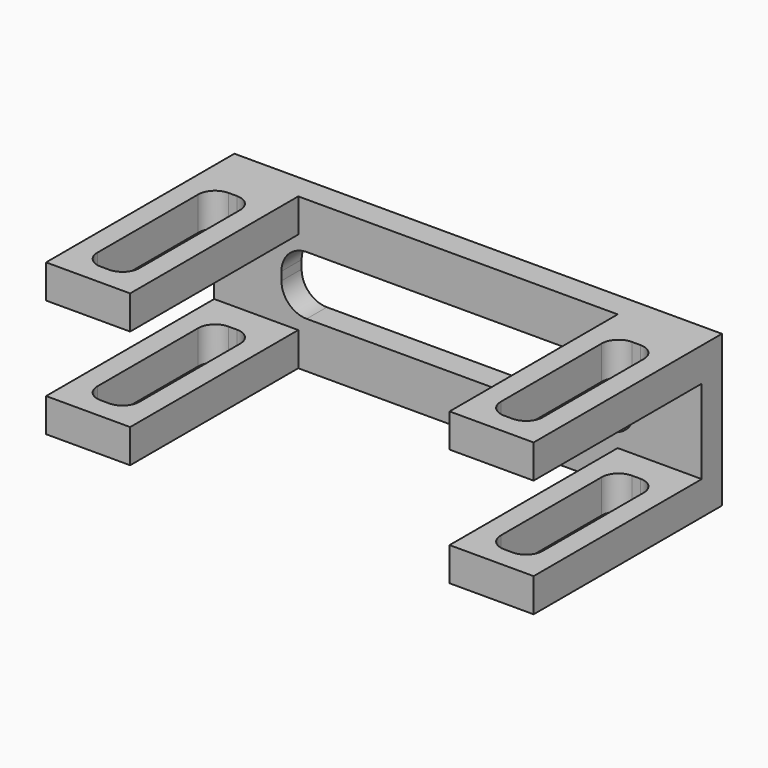
from build123d import *

# Parameters (mm, degrees)
F0_W     = 58
F0_H     = 18
F1_DEPTH = 3
F2_W     = 10
F2_H     = 4
F3_DEPTH = 25
F5_DEPTH = 3.001
F7_DEPTH = 18.001


with BuildPart() as f1:
    # F0 (on Front) → F1 (new body)
    with BuildSketch(Plane.XZ):
        with Locations((29, 9)):
            Rectangle(F0_W, F0_H)
    extrude(amount=F1_DEPTH)

    # F2 (on face) → F3 (join)
    with BuildSketch(Plane.XZ.offset(3)):
        with Locations((53, 16)):
            Rectangle(F2_W, F2_H)
        with Locations((53, 2)):
            Rectangle(F2_W, F2_H)
        with Locations((5, 2)):
            Rectangle(F2_W, F2_H)
        with Locations((5, 16)):
            Rectangle(F2_W, F2_H)
    extrude(amount=F3_DEPTH)

    # F4 (on face) → F5 (cut, through all)
    with BuildSketch(Plane.XZ.offset(3)):
        with BuildLine():
            Line((47, 12.5), (11, 12.5))
            ThreePointArc((11, 12.5), (8.87868, 11.62132), (8, 9.5))
            Line((8, 9.5), (8, 8.5))
            ThreePointArc((8, 8.5), (8.87868, 6.37868), (11, 5.5))
            Line((11, 5.5), (47, 5.5))
            ThreePointArc((47, 5.5), (49.12132, 6.37868), (50, 8.5))
            Line((50, 8.5), (50, 9.5))
            ThreePointArc((50, 9.5), (49.12132, 11.62132), (47, 12.5))
        make_face()
    extrude(amount=-F5_DEPTH, mode=Mode.SUBTRACT)

    # F6 (on face) → F7 (cut, through all)
    with BuildSketch(Plane.XY.offset(18)):
        with BuildLine():
            Line((5.5, -6.5), (4.5, -6.5))
            ThreePointArc((4.5, -6.5), (3.085786, -7.085786), (2.5, -8.5))
            Line((2.5, -8.5), (2.5, -23.5))
            ThreePointArc((2.5, -23.5), (3.085786, -24.914214), (4.5, -25.5))
            Line((4.5, -25.5), (5.5, -25.5))
            ThreePointArc((5.5, -25.5), (6.914214, -24.914214), (7.5, -23.5))
            Line((7.5, -23.5), (7.5, -8.5))
            ThreePointArc((7.5, -8.5), (6.914214, -7.085786), (5.5, -6.5))
        make_face()
        with BuildLine():
            Line((53.5, -6.5), (52.5, -6.5))
            ThreePointArc((52.5, -6.5), (51.085786, -7.085786), (50.5, -8.5))
            Line((50.5, -8.5), (50.5, -23.5))
            ThreePointArc((50.5, -23.5), (51.085786, -24.914214), (52.5, -25.5))
            Line((52.5, -25.5), (53.5, -25.5))
            ThreePointArc((53.5, -25.5), (54.914214, -24.914214), (55.5, -23.5))
            Line((55.5, -23.5), (55.5, -8.5))
            ThreePointArc((55.5, -8.5), (54.914214, -7.085786), (53.5, -6.5))
        make_face()
    extrude(amount=-F7_DEPTH, mode=Mode.SUBTRACT)


solid = f1.part
